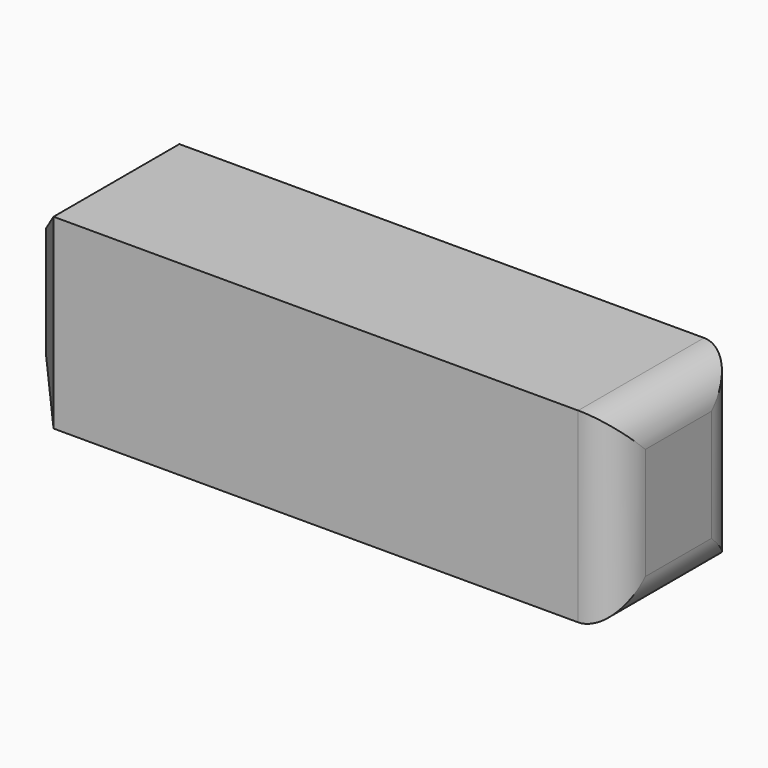
from build123d import *

# Parameters (mm, degrees)
F0_W     = 81.613116
F0_H     = 21.423442
F1_DEPTH = 25.4
F2_SIZE  = 5.08
F3_R     = 5.08


with BuildPart() as f1:
    # F0 (on Top) → F1 (new body)
    with BuildSketch(Plane.XY):
        with Locations((40.806558, 10.711721)):
            Rectangle(F0_W, F0_H)
    extrude(amount=F1_DEPTH)

    # F2
    f2_edges = [f1.edges().sort_by_distance(p)[0] for p in [
        (0, 10.711721, 25.4),
        (0, 21.423442, 12.7),
        (0, 0, 12.7),
        (0, 10.711721, 0),
    ]]
    chamfer(f2_edges, length=F2_SIZE)

    # F3
    f3_edges = [f1.edges().sort_by_distance(p)[0] for p in [
        (81.613116, 0, 12.7),
        (81.613116, 21.423442, 12.7),
        (81.613116, 10.711721, 0),
        (81.613116, 10.711721, 25.4),
    ]]
    fillet(f3_edges, radius=F3_R)


solid = f1.part
